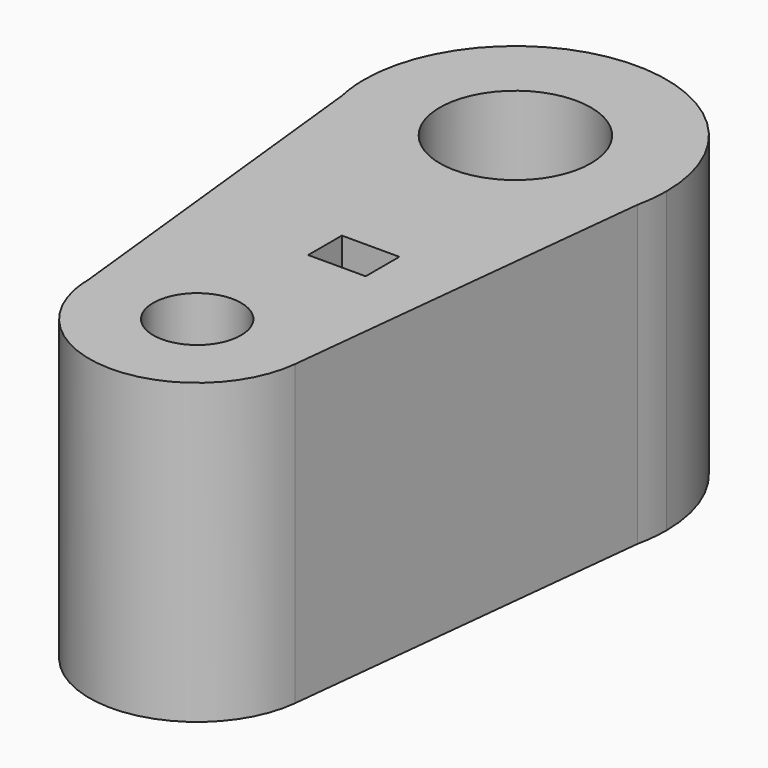
from build123d import *

# Parameters (mm, degrees)
F1_R     = 22.343097
F1_W     = 16.999803
F1_H     = 12.462489
F1_R_2   = 12.978797
F2_DEPTH = 88.24669


with BuildPart() as f2:
    # F1 (on offset) → F2 (new body)
    with BuildSketch(Plane.XY.offset(152.4)):
        with BuildLine():
            Line((43.658363, -9.476985), (44.675116, 0))
            ThreePointArc((44.675116, 0), (0, 44.675116), (-44.675116, 0))
            Line((-44.675116, 0), (-43.636028, -9.579299))
            ThreePointArc((-43.636028, -9.579299), (0.052362, -44.675085), (43.658363, -9.476985))
        make_face()
        Circle(F1_R, mode=Mode.SUBTRACT)
        with BuildLine():
            ThreePointArc((43.658363, -9.476985), (44.4202, -4.765685), (44.675116, 0))
            Line((44.675116, 0), (43.658363, -9.476985))
        make_face()
        with BuildLine():
            Line((-43.636028, -9.579299), (-44.675116, 0))
            ThreePointArc((-44.675116, 0), (-44.414584, -4.817745), (-43.636028, -9.579299))
        make_face()
        with BuildLine():
            Line((31.697058, -120.966422), (43.658363, -9.476985))
            ThreePointArc((43.658363, -9.476985), (0.052362, -44.675085), (-43.636028, -9.579299))
            Line((-43.636028, -9.579299), (-31.876086, -117.9937))
            ThreePointArc((-31.876086, -117.9937), (-0.213975, -85.687518), (31.878959, -117.565759))
            ThreePointArc((31.878959, -117.565759), (31.833451, -119.268521), (31.697058, -120.966422))
        make_face()
        with Locations((8.499901, -70.339483)):
            Rectangle(F1_W, F1_H, mode=Mode.SUBTRACT)
        with BuildLine():
            ThreePointArc((-31.226448, -123.982685), (1.526377, -149.408154), (31.697058, -120.966422))
            ThreePointArc((31.697058, -120.966422), (31.833451, -119.268521), (31.878959, -117.565759))
            ThreePointArc((31.878959, -117.565759), (-0.213975, -85.687518), (-31.876086, -117.9937))
            Line((-31.876086, -117.9937), (-31.226448, -123.982685))
        make_face()
        with Locations((0, -117.565759)):
            Circle(F1_R_2, mode=Mode.SUBTRACT)
        with BuildLine():
            Line((-31.226448, -123.982685), (-31.876086, -117.9937))
            ThreePointArc((-31.876086, -117.9937), (-31.69305, -121.003572), (-31.226448, -123.982685))
        make_face()
    extrude(amount=F2_DEPTH)


solid = f2.part
